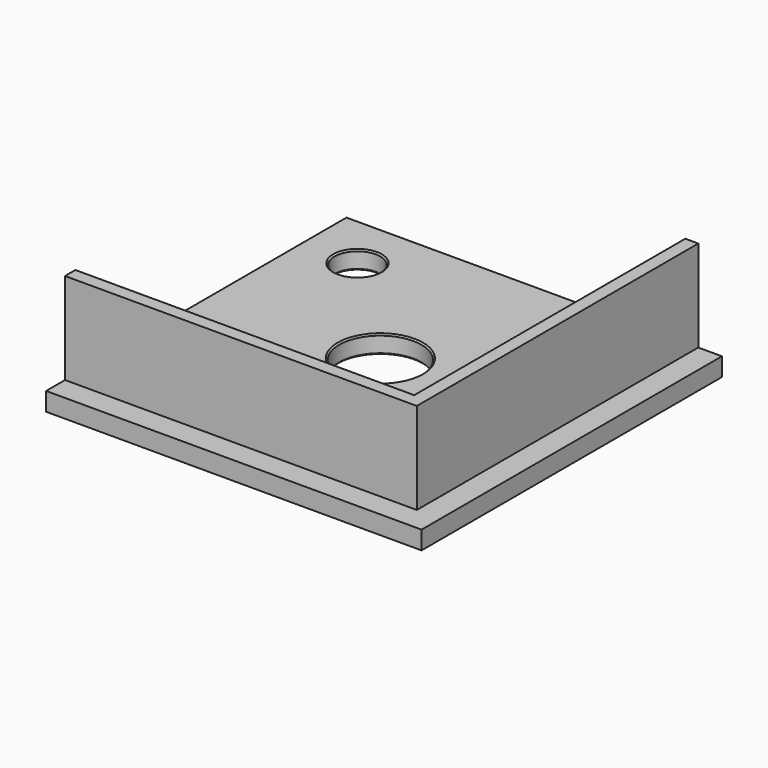
from build123d import *

# Parameters (mm, degrees)
F0_W     = 117.475
F0_H     = 117.475
F0_R     = 7.9375
F0_R_2   = 14.2875
F1_DEPTH = 6.35
F2_DEPTH = 38.1
F3_SIZE  = 0.5
F4_SIZE  = 0.5


with BuildPart() as f1:
    # F0 (on Top) → F1 (new body)
    with BuildSketch(Plane.XY):
        Rectangle(F0_W, F0_H)
        with Locations((-39.6875, -39.6875)):
            Circle(F0_R, mode=Mode.SUBTRACT)
        with Locations((39.6875, -39.6875)):
            Circle(F0_R, mode=Mode.SUBTRACT)
        Circle(F0_R_2, mode=Mode.SUBTRACT)
        with Locations((-39.6875, 39.6875)):
            Circle(F0_R, mode=Mode.SUBTRACT)
        with Locations((39.6875, 39.6875)):
            Circle(F0_R, mode=Mode.SUBTRACT)
        Polygon((63.2375, 58.7375), (58.7375, 58.7375), (58.7375, -58.7375), (-58.7375, -58.7375), (-58.7375, -63.2375), (63.2375, -63.2375), align=None)
        Polygon((71.4375, 58.7375), (63.2375, 58.7375), (63.2375, -63.2375), (-58.7375, -63.2375), (-58.7375, -71.4375), (71.4375, -71.4375), align=None)
    extrude(amount=F1_DEPTH)

    # F0 (on Top) → F2 (join)
    with BuildSketch(Plane.XY):
        Polygon((63.2375, 58.7375), (58.7375, 58.7375), (58.7375, -58.7375), (-58.7375, -58.7375), (-58.7375, -63.2375), (63.2375, -63.2375), align=None)
    extrude(amount=F2_DEPTH)

    # F3
    f3_edges = [f1.edges().sort_by_distance(p)[0] for p in [
        (31.75, -39.6875, 0),
        (-47.625, -39.6875, 0),
        (-47.625, 39.6875, 0),
        (31.75, 39.6875, 0),
        (-14.2875, 0, 0),
    ]]
    chamfer(f3_edges, length=F3_SIZE)

    # F4
    f4_edges = [f1.edges().sort_by_distance(p)[0] for p in [
        (-47.625, 39.6875, 6.35),
        (31.75, 39.6875, 6.35),
        (-14.2875, 0, 6.35),
        (31.75, -39.6875, 6.35),
        (-47.625, -39.6875, 6.35),
    ]]
    chamfer(f4_edges, length=F4_SIZE)


solid = f1.part
